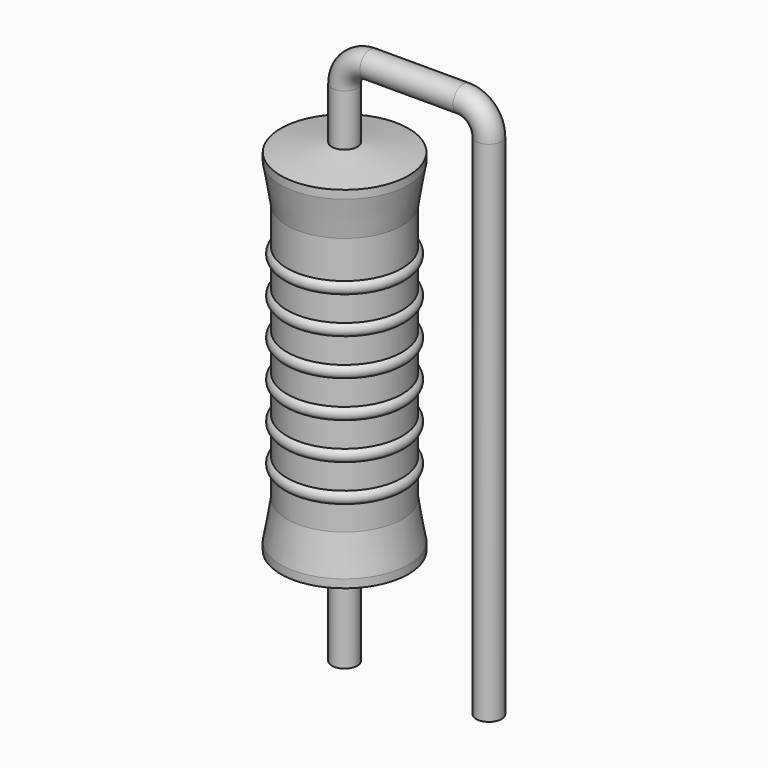
from build123d import *

# Parameters (mm, degrees)
SKETCH_R = 0.45


with BuildPart() as sweep_body:
    # Sweep: sweep along a path in Sketch001
    with BuildLine(Plane.XZ) as sweep_path:
        Line((0, -3), (0, 14.9))
        ThreePointArc((0, 14.9), (0.263601, 15.536393), (0.899992, 15.8))
        Line((0.899992, 15.8), (4.18, 15.8))
        ThreePointArc((4.18, 15.8), (4.816396, 15.536396), (5.08, 14.9))
        Line((5.08, 14.9), (5.08, -3))
    # Sketch → Sweep (sweep)
    with BuildSketch(Plane.XY.offset(-2)):
        Circle(SKETCH_R)
    sweep(path=sweep_path.line)


with BuildPart() as revolution:
    # Sketch002 → Revolution (revolve)
    with BuildSketch(Plane.XZ):
        Polygon((0, 0.1), (0, 13.1), (0.3375, 13.1), (2.25, 12.775), (2.25, 12.4825), (2.025, 11.15), (2.025, 2.05), (2.25, 0.7175), (2.25, 0.425), (0.3375, 0.1), align=None)
    revolve(axis=Axis((0, 0, 0), (0, 0, 1)))


with BuildPart() as revolution001:
    # Sketch003 → Revolution001 (revolve)
    with BuildSketch(Plane.XZ):
        with BuildLine():
            Line((1.8, 10.7), (1.8, 2.05))
            Line((1.8, 2.05), (1.935, 2.05))
            Line((1.935, 2.05), (1.935, 2.9))
            ThreePointArc((1.935, 2.9), (2.16, 3.125), (1.935, 3.35))
            Line((1.935, 3.35), (1.935, 4.2))
            ThreePointArc((1.935, 4.2), (2.16, 4.425), (1.935, 4.65))
            Line((1.935, 4.65), (1.935, 5.5))
            ThreePointArc((1.935, 5.5), (2.16, 5.725), (1.935, 5.95))
            Line((1.935, 5.95), (1.935, 6.8))
            ThreePointArc((1.935, 6.8), (2.16, 7.025), (1.935, 7.25))
            Line((1.935, 7.25), (1.935, 8.1))
            ThreePointArc((1.935, 8.1), (2.16, 8.325), (1.935, 8.55))
            Line((1.935, 8.55), (1.935, 9.4))
            ThreePointArc((1.935, 9.4), (2.16, 9.625), (1.935, 9.85))
            Line((1.935, 10.7), (1.935, 9.85))
            Line((1.8, 10.7), (1.935, 10.7))
        make_face()
    revolve(axis=Axis((0, 0, 0), (0, 0, 1)))


solid = Compound([sweep_body.part, revolution.part, revolution001.part])
